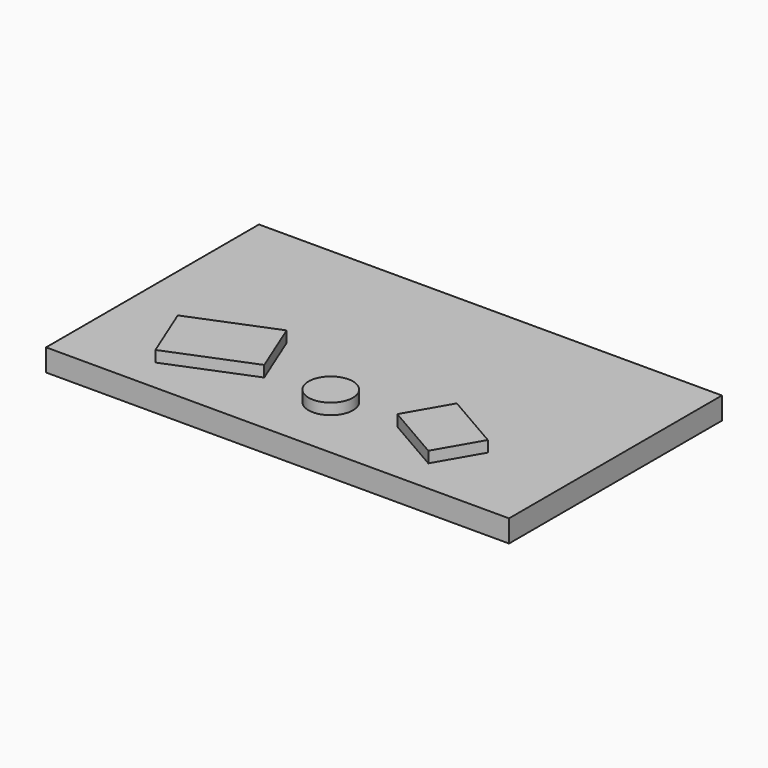
from build123d import *

# Parameters (mm, degrees)
F0_W     = 1060.45
F0_H     = 609.6
F2_DEPTH = 50.8
F1_R     = 50.8
F3_DEPTH = 25.4


with BuildPart() as f2:
    # F0 (on Top) → F2 (new body)
    with BuildSketch(Plane.XY):
        with Locations((530.225, 304.8)):
            Rectangle(F0_W, F0_H)
    extrude(amount=-F2_DEPTH)

    # F1 (on face) → F3 (join)
    with BuildSketch(Plane.XY):
        Polygon((377.825, 152.399999), (325.4375, 281.905365), (137.066058, 205.705365), (189.453558, 76.199999), align=None)
        Polygon((814.607272, 76.199999), (871.757272, 175.186702), (739.775, 251.386702), (682.625, 152.399999), align=None)
        with Locations((530.225, 152.399999)):
            Circle(F1_R)
    extrude(amount=F3_DEPTH)


solid = f2.part
